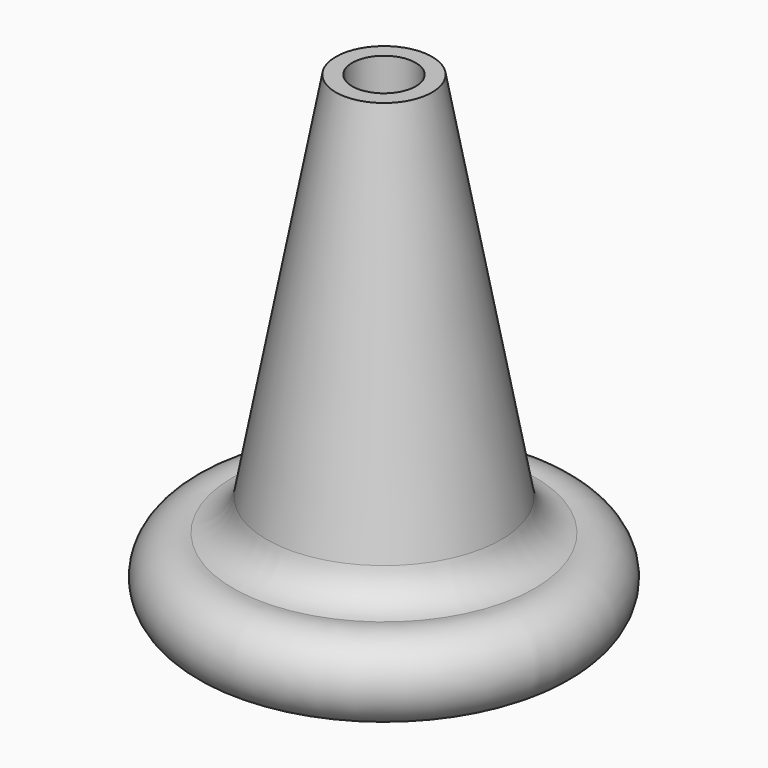
from build123d import *

# Parameters (mm, degrees)
F2_R     = 0.1
F3_DEPTH = 1.5


with BuildPart() as f1:
    # F0 (on Front) → F1 (revolve)
    with BuildSketch(Plane.XZ):
        with BuildLine():
            Line((-0.5625, 0), (0, 0))
            Line((0, 0), (0, 1.5))
            Line((0, 1.5), (-0.1515, 1.5))
            Line((-0.1515, 1.5), (-0.369, 0.332))
            ThreePointArc((-0.369, 0.332), (-0.405396, 0.264638), (-0.474243, 0.231135))
            ThreePointArc((-0.474243, 0.231135), (-0.618389, 0.153759), (-0.5625, 0))
        make_face()
    revolve(axis=Axis((0, 0, 0.75), (0, 0, 1)))

    # F2 (on face) → F3 (cut)
    with BuildSketch(Plane.XY.offset(1.5)):
        Circle(F2_R)
    extrude(amount=-F3_DEPTH, mode=Mode.SUBTRACT)


solid = f1.part
